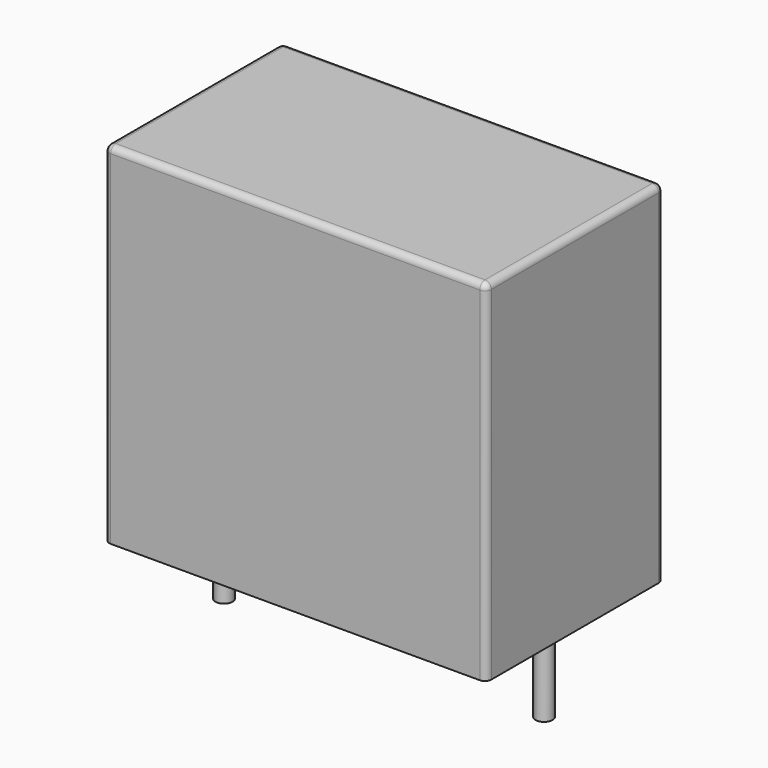
from build123d import *

# Parameters (mm, degrees)
F0_W     = 17.9
F0_H     = 10.4
F1_DEPTH = 16.4
F2_R     = 0.3
F3_R     = 0.4
F4_DEPTH = 4


with BuildPart() as f1:
    # F0 (on Top) → F1 (new body)
    with BuildSketch(Plane.XY):
        Rectangle(F0_W, F0_H)
    extrude(amount=F1_DEPTH)

    # F2
    f2_edges = [f1.edges().sort_by_distance(p)[0] for p in [
        (0, 5.2, 16.4),
        (-8.95, 0, 16.4),
        (0, -5.2, 16.4),
        (8.95, 0, 16.4),
        (8.95, -5.2, 8.2),
        (8.95, 5.2, 8.2),
        (-8.95, 5.2, 8.2),
        (-8.95, -5.2, 8.2),
    ]]
    fillet(f2_edges, radius=F2_R)


with BuildPart() as f4:
    # F3 (on Top) → F4 (new body)
    with BuildSketch(Plane.XY):
        with Locations((-7.5, 0)):
            Circle(F3_R)
        with Locations((7.5, 0)):
            Circle(F3_R)
    extrude(amount=-F4_DEPTH)


solid = Compound([f1.part, f4.part])
